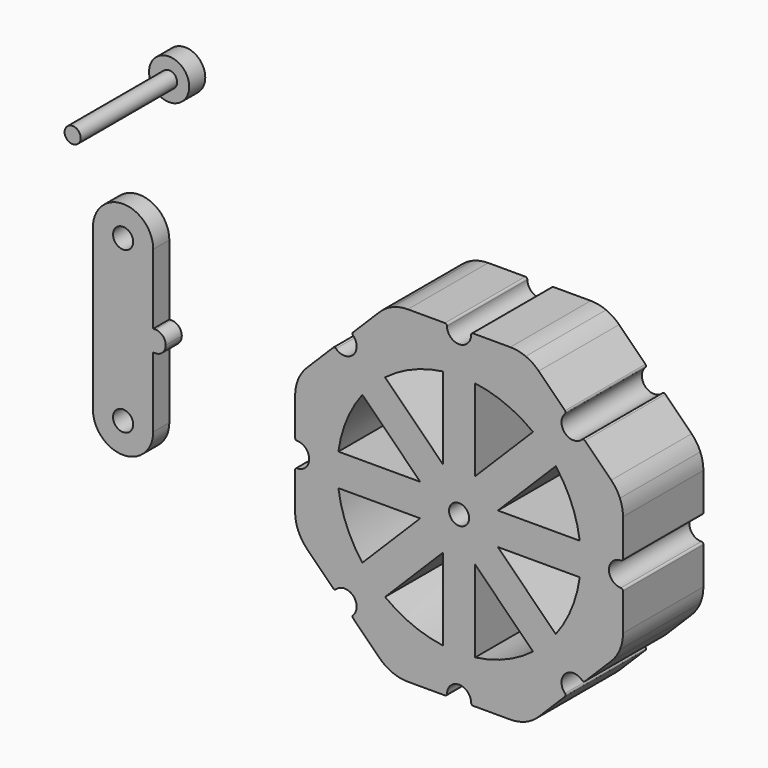
from build123d import *

# Parameters (mm, degrees)
F0_W     = 0.5
F0_H     = 2.6
F0_R     = 2.5
F1_DEPTH = 5
F2_DEPTH = 25
F0_R_2   = 2
F3_DEPTH = 30
F0_R_3   = 5
F4_DEPTH = 5


with BuildPart() as f1:
    # F0 (on Front) → F1 (new body)
    with BuildSketch(Plane.XZ):
        with BuildLine():
            Line((-92.0837859809, 2.6), (-92.0837859809, 20))
            ThreePointArc((-92.0837859809, 20), (-99.5837859809, 12.5), (-107.0837859809, 20))
            Line((-107.0837859809, 20), (-107.0837859809, 0))
            Line((-107.0837859809, 0), (-92.0837859809, 0))
            Line((-92.0837859809, 0), (-92.0837859809, 2.6))
        make_face()
        with BuildLine():
            Line((-92.0837859809, -2.6), (-92.0837859809, 0))
            Line((-92.0837859809, 0), (-107.0837859809, 0))
            Line((-107.0837859809, 0), (-107.0837859809, -20))
            ThreePointArc((-107.0837859809, -20), (-99.5837859809, -12.5), (-92.0837859809, -20))
            Line((-92.0837859809, -20), (-92.0837859809, -2.6))
        make_face()
        with BuildLine():
            Line((-92.0837859809, 20), (-97.0837859809, 20))
            ThreePointArc((-97.0837859809, 20), (-99.5837859809, 17.5), (-102.0837859809, 20))
            Line((-102.0837859809, 20), (-107.0837859809, 20))
            ThreePointArc((-107.0837859809, 20), (-99.5837859809, 12.5), (-92.0837859809, 20))
        make_face()
        with BuildLine():
            ThreePointArc((-102.0837859809, 20), (-99.5837859809, 22.5), (-97.0837859809, 20))
            Line((-97.0837859809, 20), (-92.0837859809, 20))
            ThreePointArc((-92.0837859809, 20), (-99.5837859809, 27.5), (-107.0837859809, 20))
            Line((-107.0837859809, 20), (-102.0837859809, 20))
        make_face()
        with BuildLine():
            Line((-91.5837859809, 0), (-92.0837859809, 0))
            Line((-92.0837859809, 0), (-92.0837859809, -2.6))
            Line((-92.0837859809, -2.6), (-91.5837859809, -2.6))
            ThreePointArc((-91.5837859809, -2.6), (-89.7453083499, -1.8384776311), (-88.9837859809, 0))
            ThreePointArc((-88.9837859809, 0), (-89.7453083499, 1.8384776311), (-91.5837859809, 2.6))
            Line((-91.5837859809, 2.6), (-91.5837859809, 0))
        make_face()
        with Locations((-91.8337859809, 1.3)):
            Rectangle(F0_W, F0_H)
        with BuildLine():
            ThreePointArc((-92.0837859809, -20), (-99.5837859809, -12.5), (-107.0837859809, -20))
            ThreePointArc((-107.0837859809, -20), (-99.5837859809, -27.5), (-92.0837859809, -20))
        make_face()
        with Locations((-99.5837859809, -20)):
            Circle(F0_R, mode=Mode.SUBTRACT)
    extrude(amount=F1_DEPTH)


with BuildPart() as f2:
    # F0 (on Front) → F2 (new body)
    with BuildSketch(Plane.XZ):
        with BuildLine():
            Line((40.7842712475, -12.7512626585), (40.7842712475, -3.5))
            ThreePointArc((40.7842712475, -3.5), (40.6378246381, -3.1464466094), (40.2842712475, -3))
            ThreePointArc((40.2842712475, -3), (37.2842712475, 0), (40.2842712475, 3))
            ThreePointArc((40.2842712475, 3), (40.6378246381, 3.1464466094), (40.7842712475, 3.5))
            Line((40.7842712475, 3.5), (40.7842712475, 12.7512626585))
            ThreePointArc((40.7842712475, 12.7512626585), (40.5921240515, 14.7021658786), (40.0230665726, 16.5780969821))
            ThreePointArc((40.0230665726, 16.5780969821), (39.0989673705, 18.3069649887), (37.8553390593, 19.8223304703))
            Line((37.8553390593, 19.8223304703), (31.313708499, 26.3639610307))
            ThreePointArc((31.313708499, 26.3639610307), (30.9601551084, 26.5104076401), (30.6066017178, 26.3639610307))
            ThreePointArc((30.6066017178, 26.3639610307), (26.3639610307, 26.3639610307), (26.3639610307, 30.6066017178))
            ThreePointArc((26.3639610307, 30.6066017178), (26.5104076401, 30.9601551084), (26.3639610307, 31.313708499))
            Line((26.3639610307, 31.313708499), (19.8223304703, 37.8553390593))
            ThreePointArc((19.8223304703, 37.8553390593), (18.3069649887, 39.0989673705), (16.5780969821, 40.0230665726))
            ThreePointArc((16.5780969821, 40.0230665726), (14.7021658786, 40.5921240515), (12.7512626585, 40.7842712475))
            Line((12.7512626585, 40.7842712475), (3.5, 40.7842712475))
            ThreePointArc((3.5, 40.7842712475), (3.1464466094, 40.6378246381), (3, 40.2842712475))
            ThreePointArc((3, 40.2842712475), (0, 37.2842712475), (-3, 40.2842712475))
            ThreePointArc((-3, 40.2842712475), (-3.1464466094, 40.6378246381), (-3.5, 40.7842712475))
            Line((-3.5, 40.7842712475), (-12.7512626585, 40.7842712475))
            ThreePointArc((-12.7512626585, 40.7842712475), (-14.7021658786, 40.5921240515), (-16.5780969821, 40.0230665726))
            ThreePointArc((-16.5780969821, 40.0230665726), (-18.3069649887, 39.0989673705), (-19.8223304703, 37.8553390593))
            Line((-19.8223304703, 37.8553390593), (-26.3639610307, 31.313708499))
            ThreePointArc((-26.3639610307, 31.313708499), (-26.5104076401, 30.9601551084), (-26.3639610307, 30.6066017178))
            ThreePointArc((-26.3639610307, 30.6066017178), (-26.3639610307, 26.3639610307), (-30.6066017178, 26.3639610307))
            ThreePointArc((-30.6066017178, 26.3639610307), (-30.9601551084, 26.5104076401), (-31.313708499, 26.3639610307))
            Line((-31.313708499, 26.3639610307), (-37.8553390593, 19.8223304703))
            ThreePointArc((-37.8553390593, 19.8223304703), (-39.0989673705, 18.3069649887), (-40.0230665726, 16.5780969821))
            ThreePointArc((-40.0230665726, 16.5780969821), (-40.5921240515, 14.7021658786), (-40.7842712475, 12.7512626585))
            Line((-40.7842712475, 12.7512626585), (-40.7842712475, 3.5))
            ThreePointArc((-40.7842712475, 3.5), (-40.6378246381, 3.1464466094), (-40.2842712475, 3))
            ThreePointArc((-40.2842712475, 3), (-37.2842712475, 0), (-40.2842712475, -3))
            ThreePointArc((-40.2842712475, -3), (-40.6378246381, -3.1464466094), (-40.7842712475, -3.5))
            Line((-40.7842712475, -3.5), (-40.7842712475, -12.7512626585))
            ThreePointArc((-40.7842712475, -12.7512626585), (-40.5921240515, -14.7021658786), (-40.0230665726, -16.5780969821))
            ThreePointArc((-40.0230665726, -16.5780969821), (-39.0989673705, -18.3069649887), (-37.8553390593, -19.8223304703))
            Line((-37.8553390593, -19.8223304703), (-31.313708499, -26.3639610307))
            ThreePointArc((-31.313708499, -26.3639610307), (-30.9601551084, -26.5104076401), (-30.6066017178, -26.3639610307))
            ThreePointArc((-30.6066017178, -26.3639610307), (-26.3639610307, -26.3639610307), (-26.3639610307, -30.6066017178))
            ThreePointArc((-26.3639610307, -30.6066017178), (-26.5104076401, -30.9601551084), (-26.3639610307, -31.313708499))
            Line((-26.3639610307, -31.313708499), (-19.8223304703, -37.8553390593))
            ThreePointArc((-19.8223304703, -37.8553390593), (-18.3069649887, -39.0989673705), (-16.5780969821, -40.0230665726))
            ThreePointArc((-16.5780969821, -40.0230665726), (-14.7021658786, -40.5921240515), (-12.7512626585, -40.7842712475))
            Line((-12.7512626585, -40.7842712475), (-3.5, -40.7842712475))
            ThreePointArc((-3.5, -40.7842712475), (-3.1464466094, -40.6378246381), (-3, -40.2842712475))
            ThreePointArc((-3, -40.2842712475), (0, -37.2842712475), (3, -40.2842712475))
            ThreePointArc((3, -40.2842712475), (3.1464466094, -40.6378246381), (3.5, -40.7842712475))
            Line((3.5, -40.7842712475), (12.7512626585, -40.7842712475))
            ThreePointArc((12.7512626585, -40.7842712475), (14.7021658786, -40.5921240515), (16.5780969821, -40.0230665726))
            ThreePointArc((16.5780969821, -40.0230665726), (18.3069649887, -39.0989673705), (19.8223304703, -37.8553390593))
            Line((19.8223304703, -37.8553390593), (26.3639610307, -31.313708499))
            ThreePointArc((26.3639610307, -31.313708499), (26.5104076401, -30.9601551084), (26.3639610307, -30.6066017178))
            ThreePointArc((26.3639610307, -30.6066017178), (26.3639610307, -26.3639610307), (30.6066017178, -26.3639610307))
            ThreePointArc((30.6066017178, -26.3639610307), (30.9601551084, -26.5104076401), (31.313708499, -26.3639610307))
            Line((31.313708499, -26.3639610307), (37.8553390593, -19.8223304703))
            ThreePointArc((37.8553390593, -19.8223304703), (39.0989673705, -18.3069649887), (40.0230665726, -16.5780969821))
            ThreePointArc((40.0230665726, -16.5780969821), (40.5921240515, -14.7021658786), (40.7842712475, -12.7512626585))
        make_face()
        with BuildLine():
            ThreePointArc((30.0189454343, 4), (30.2178669919, 2.0043950326), (30.2842712475, 0))
            ThreePointArc((30.2842712475, 0), (30.2178669919, -2.0043950326), (30.0189454343, -4))
            ThreePointArc((30.0189454343, -4), (27.9790183626, -11.5892888677), (24.0550270054, -18.3981727559))
            ThreePointArc((24.0550270054, -18.3981727559), (21.4142135624, -21.4142135624), (18.3981727559, -24.0550270054))
            ThreePointArc((18.3981727559, -24.0550270054), (11.5892888677, -27.9790183626), (4, -30.0189454343))
            ThreePointArc((4, -30.0189454343), (0, -30.2842712475), (-4, -30.0189454343))
            ThreePointArc((-4, -30.0189454343), (-11.5892888677, -27.9790183626), (-18.3981727559, -24.0550270054))
            ThreePointArc((-18.3981727559, -24.0550270054), (-21.4142135624, -21.4142135624), (-24.0550270054, -18.3981727559))
            ThreePointArc((-24.0550270054, -18.3981727559), (-27.9790183626, -11.5892888677), (-30.0189454343, -4))
            ThreePointArc((-30.0189454343, -4), (-30.2842712475, 0), (-30.0189454343, 4))
            ThreePointArc((-30.0189454343, 4), (-27.9790183626, 11.5892888677), (-24.0550270054, 18.3981727559))
            ThreePointArc((-24.0550270054, 18.3981727559), (-21.4142135624, 21.4142135624), (-18.3981727559, 24.0550270054))
            ThreePointArc((-18.3981727559, 24.0550270054), (-11.5892888677, 27.9790183626), (-4, 30.0189454343))
            ThreePointArc((-4, 30.0189454343), (0, 30.2842712475), (4, 30.0189454343))
            ThreePointArc((4, 30.0189454343), (11.5892888677, 27.9790183626), (18.3981727559, 24.0550270054))
            ThreePointArc((18.3981727559, 24.0550270054), (21.4142135624, 21.4142135624), (24.0550270054, 18.3981727559))
            ThreePointArc((24.0550270054, 18.3981727559), (27.9790183626, 11.5892888677), (30.0189454343, 4))
        make_face(mode=Mode.SUBTRACT)
        with BuildLine():
            ThreePointArc((30.0189454343, -4), (30.2178669919, -2.0043950326), (30.2842712475, 0))
            ThreePointArc((30.2842712475, 0), (30.2178669919, 2.0043950326), (30.0189454343, 4))
            Line((30.0189454343, 4), (9.6568542495, 4))
            Line((9.6568542495, 4), (24.0550270054, 18.3981727559))
            ThreePointArc((24.0550270054, 18.3981727559), (21.4142135624, 21.4142135624), (18.3981727559, 24.0550270054))
            Line((18.3981727559, 24.0550270054), (4, 9.6568542495))
            Line((4, 9.6568542495), (4, 30.0189454343))
            ThreePointArc((4, 30.0189454343), (0, 30.2842712475), (-4, 30.0189454343))
            Line((-4, 30.0189454343), (-4, 9.6568542495))
            Line((-4, 9.6568542495), (-18.3981727559, 24.0550270054))
            ThreePointArc((-18.3981727559, 24.0550270054), (-21.4142135624, 21.4142135624), (-24.0550270054, 18.3981727559))
            Line((-24.0550270054, 18.3981727559), (-9.6568542495, 4))
            Line((-9.6568542495, 4), (-30.0189454343, 4))
            ThreePointArc((-30.0189454343, 4), (-30.2842712475, 0), (-30.0189454343, -4))
            Line((-30.0189454343, -4), (-9.6568542495, -4))
            Line((-9.6568542495, -4), (-24.0550270054, -18.3981727559))
            ThreePointArc((-24.0550270054, -18.3981727559), (-21.4142135624, -21.4142135624), (-18.3981727559, -24.0550270054))
            Line((-18.3981727559, -24.0550270054), (-4, -9.6568542495))
            Line((-4, -9.6568542495), (-4, -30.0189454343))
            ThreePointArc((-4, -30.0189454343), (0, -30.2842712475), (4, -30.0189454343))
            Line((4, -30.0189454343), (4, -9.6568542495))
            Line((4, -9.6568542495), (18.3981727559, -24.0550270054))
            ThreePointArc((18.3981727559, -24.0550270054), (21.4142135624, -21.4142135624), (24.0550270054, -18.3981727559))
            Line((24.0550270054, -18.3981727559), (9.6568542495, -4))
            Line((9.6568542495, -4), (30.0189454343, -4))
        make_face()
        Circle(F0_R, mode=Mode.SUBTRACT)
    extrude(amount=F2_DEPTH)


with BuildPart() as f3:
    # F0 (on Front) → F3 (new body)
    with BuildSketch(Plane.XZ):
        with Locations((-92.1364873648, 55.167786777)):
            Circle(F0_R_2)
    extrude(amount=F3_DEPTH)

    # F0 (on Front) → F4 (join)
    with BuildSketch(Plane.XZ):
        with Locations((-92.1364873648, 55.167786777)):
            Circle(F0_R_3)
        with Locations((-92.1364873648, 55.167786777)):
            Circle(F0_R_2, mode=Mode.SUBTRACT)
        with Locations((-92.1364873648, 55.167786777)):
            Circle(F0_R_2)
    extrude(amount=-F4_DEPTH)


solid = Compound([f1.part, f2.part, f3.part])
